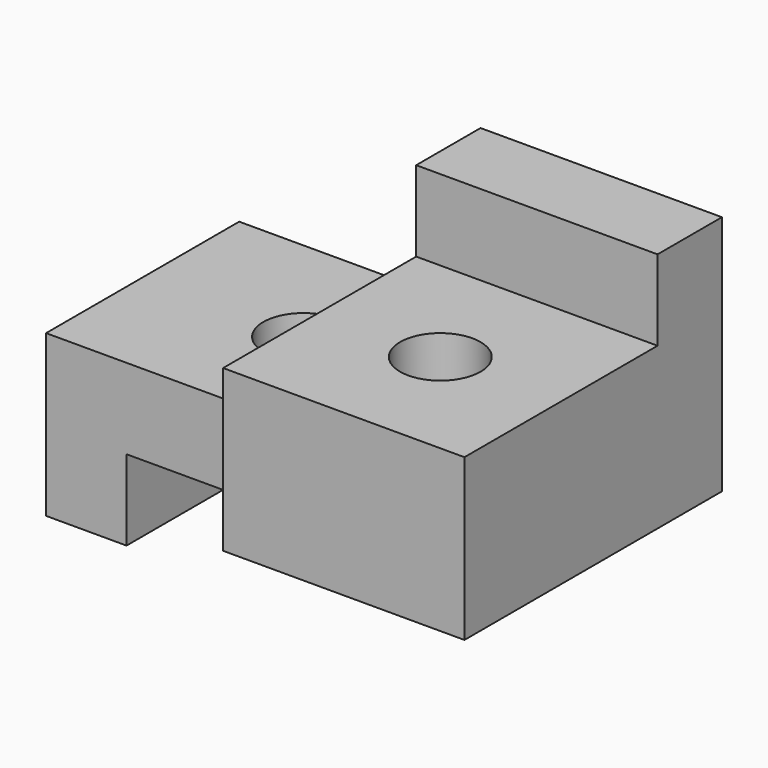
from build123d import *

# Parameters (mm, degrees)
F1_DEPTH = 25.4
F2_DEPTH = 19.05
F3_W     = 19.05
F3_H     = 6.35
F4_DEPTH = 19.05
F5_R     = 3.175
F6_R     = 3.175
F7_DEPTH = 19.051


with BuildPart() as f1:
    # F0 (on Front) → F1 (new body)
    with BuildSketch(Plane.XZ):
        Polygon((0, 6.35), (0, 0), (19.05, 0), (19.05, 19.05), (0, 19.05), align=None)
    extrude(amount=F1_DEPTH)

    # F0 (on Front) → F2 (join)
    with BuildSketch(Plane.XZ):
        Polygon((-12.7, 0), (0, 0), (0, 6.35), (-19.05, 6.35), (-19.05, -6.35), (-12.7, -6.35), align=None)
    extrude(amount=F2_DEPTH)

    # F3 (on face) → F4 (cut)
    with BuildSketch(Plane.XZ.offset(25.4)):
        with Locations((9.525, 15.875)):
            Rectangle(F3_W, F3_H)
    extrude(amount=-F4_DEPTH, mode=Mode.SUBTRACT)

    # F5 (on face) + F6 (on face) → F7 (cut, through all)
    with BuildSketch(Plane.XY.offset(12.7)):
        with Locations((9.525, -15.875)):
            Circle(F5_R)
    with BuildSketch(Plane.XY.offset(6.35)):
        with Locations((-6.35, -9.525)):
            Circle(F6_R)
    extrude(amount=-F7_DEPTH, mode=Mode.SUBTRACT)


solid = f1.part
